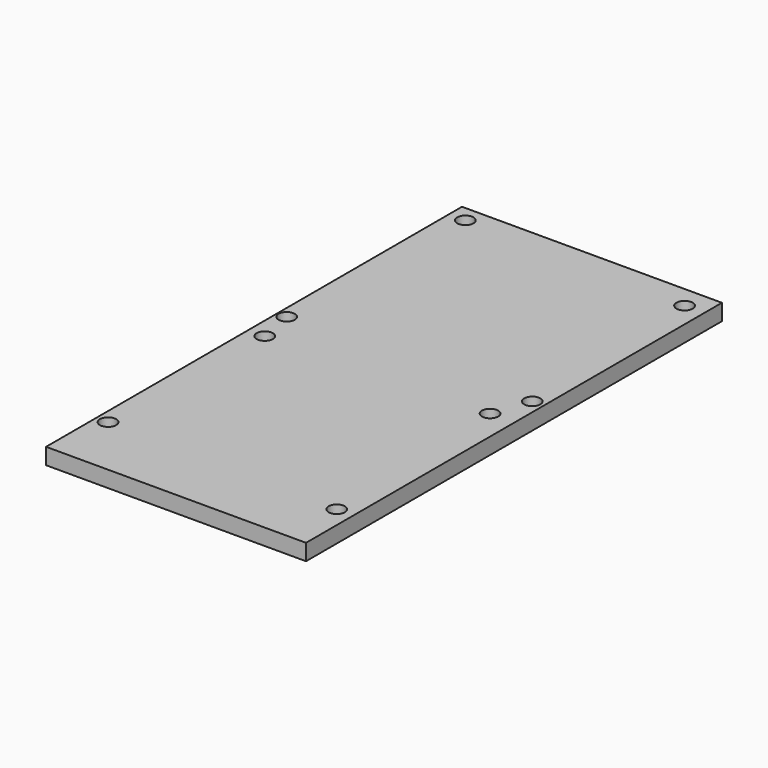
from build123d import *

# Parameters (mm, degrees)
F0_W     = 80
F0_H     = 160
F0_R     = 2.5
F1_DEPTH = 5


with BuildPart() as f1:
    # F0 (on Top) → F1 (new body)
    with BuildSketch(Plane.XY):
        Rectangle(F0_W, F0_H)
        with Locations((-36.39055, -60.672157)):
            Circle(F0_R, mode=Mode.SUBTRACT)
        with Locations((34.84562, -61.748773)):
            Circle(F0_R, mode=Mode.SUBTRACT)
        with Locations((-34.955062, -2.175957)):
            Circle(F0_R, mode=Mode.SUBTRACT)
        with Locations((-37.108295, 8.949087)):
            Circle(F0_R, mode=Mode.SUBTRACT)
        with Locations((32.512948, 0.156713)):
            Circle(F0_R, mode=Mode.SUBTRACT)
        with Locations((36.460549, 11.461194)):
            Circle(F0_R, mode=Mode.SUBTRACT)
        with Locations((-34.955062, 74.981607)):
            Circle(F0_R, mode=Mode.SUBTRACT)
        with Locations((33.948436, 73.199352)):
            Circle(F0_R, mode=Mode.SUBTRACT)
    extrude(amount=F1_DEPTH)


solid = f1.part
